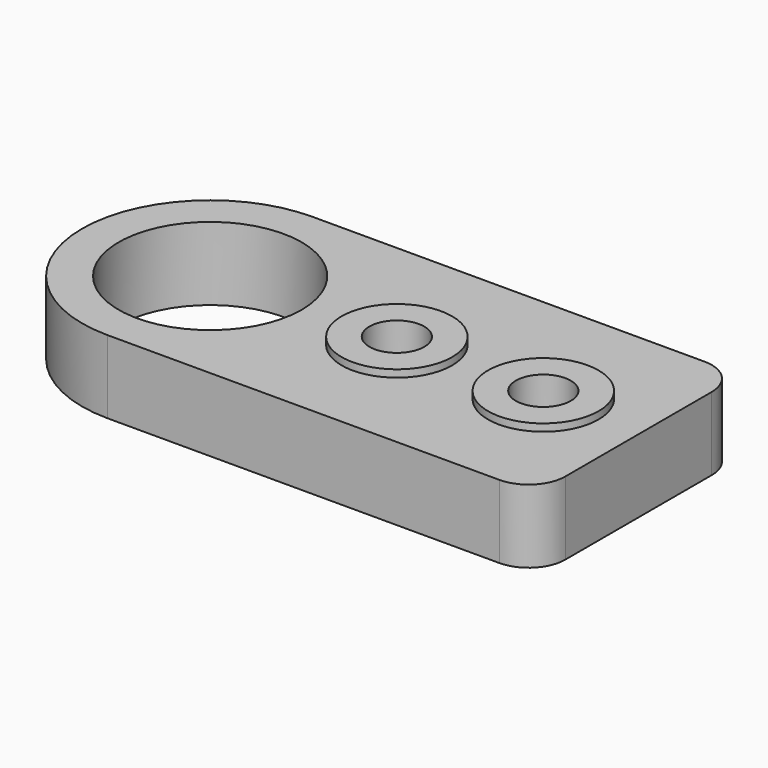
from build123d import *

# Parameters (mm, degrees)
F0_R     = 12.5
F1_DEPTH = 10
F2_R     = 7.55
F2_R_2   = 3.75
F3_DEPTH = 1
F4_DEPTH = 9


with BuildPart() as f1:
    # F0 (on Top) → F1 (new body)
    with BuildSketch(Plane.XY):
        with BuildLine():
            ThreePointArc((0, 17.5), (5.1256313292, 5.1256313292), (17.5, 0))
            Line((17.5, 0), (71, 0))
            ThreePointArc((71, 0), (74.5355339059, 1.4644660941), (76, 5))
            Line((76, 5), (76, 30))
            ThreePointArc((76, 30), (74.5355339059, 33.5355339059), (71, 35))
            Line((71, 35), (17.5, 35))
            ThreePointArc((17.5, 35), (5.1256313292, 29.8743686708), (0, 17.5))
        make_face()
        with Locations((17.5, 17.5)):
            Circle(F0_R, mode=Mode.SUBTRACT)
    extrude(amount=F1_DEPTH)

    # F2 (on face) → F3 (join)
    with BuildSketch(Plane.XY.offset(10)):
        with Locations((43, 17.5)):
            Circle(F2_R)
        with Locations((43, 17.5)):
            Circle(F2_R_2, mode=Mode.SUBTRACT)
        with Locations((63, 17.5)):
            Circle(F2_R)
        with Locations((63, 17.5)):
            Circle(F2_R_2, mode=Mode.SUBTRACT)
    extrude(amount=F3_DEPTH)

    # F4 (cut): faces of the model
    f4_faces = [f1.faces().sort_by_distance(p)[0] for p in [
        (43, 17.5, 10),
        (63, 17.5, 10),
    ]]
    extrude(f4_faces, amount=-F4_DEPTH, mode=Mode.SUBTRACT)


solid = f1.part
